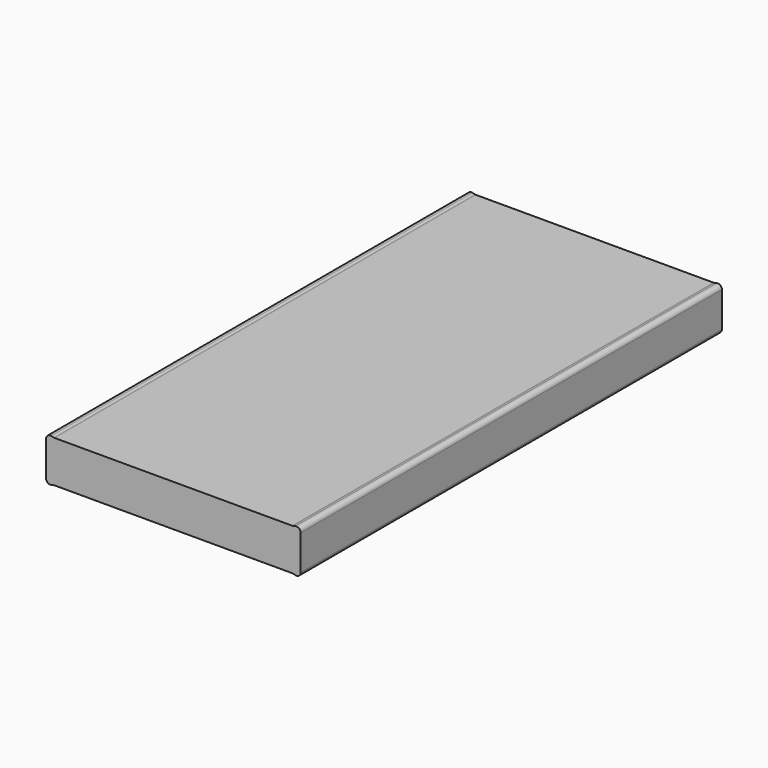
from build123d import *

# Parameters (mm, degrees)
F1_DEPTH = 12.7


with BuildPart() as f1:
    # F0 (on Front) → F1 (new body, symmetric)
    with BuildSketch(Plane.XZ):
        with BuildLine():
            Line((-5.73532, -1.00838), (5.73532, -1.00838))
            ThreePointArc((5.73532, -1.00838), (5.749638, -1.00919), (5.763773, -1.011608))
            Line((5.763773, -1.011608), (5.892995, -1.041315))
            ThreePointArc((5.892995, -1.041315), (6.065089, -1.002247), (6.14172, -0.84328))
            Line((6.14172, -0.84328), (6.14172, 0.84328))
            ThreePointArc((6.14172, 0.84328), (6.065089, 1.002247), (5.892995, 1.041315))
            Line((5.892995, 1.041315), (5.763773, 1.011608))
            ThreePointArc((5.763773, 1.011608), (5.749638, 1.00919), (5.73532, 1.00838))
            Line((5.73532, 1.00838), (-5.73532, 1.00838))
            ThreePointArc((-5.73532, 1.00838), (-5.749638, 1.00919), (-5.763773, 1.011608))
            Line((-5.763773, 1.011608), (-5.892995, 1.041315))
            ThreePointArc((-5.892995, 1.041315), (-6.065089, 1.002247), (-6.14172, 0.84328))
            Line((-6.14172, 0.84328), (-6.14172, -0.84328))
            ThreePointArc((-6.14172, -0.84328), (-6.065089, -1.002247), (-5.892995, -1.041315))
            Line((-5.892995, -1.041315), (-5.763773, -1.011608))
            ThreePointArc((-5.763773, -1.011608), (-5.749638, -1.00919), (-5.73532, -1.00838))
        make_face()
    extrude(amount=F1_DEPTH, both=True)


solid = f1.part
